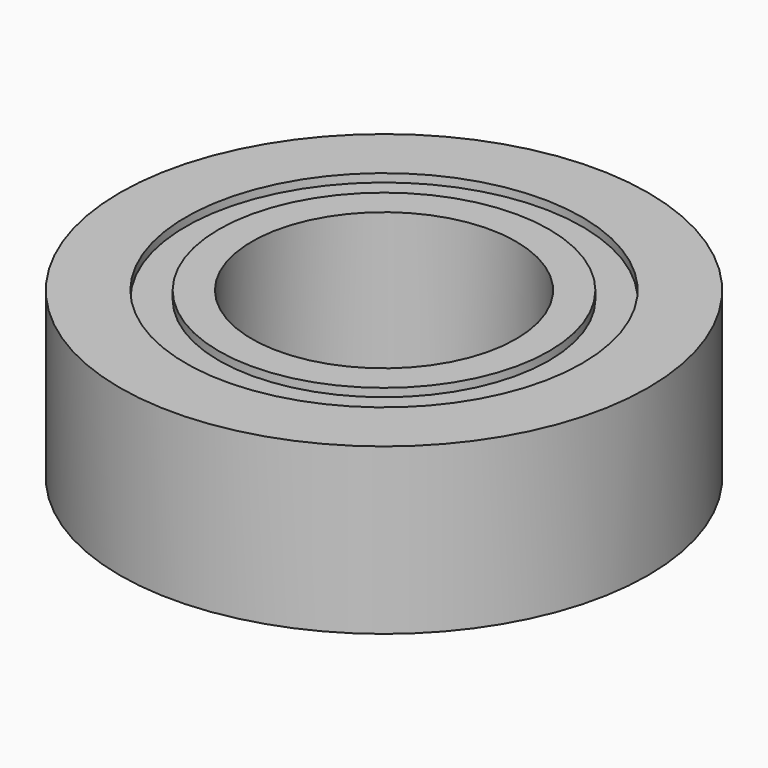
from build123d import *

# Parameters (mm, degrees)
SKETCH_R        = 8
SKETCH_R_2      = 4
PAD_DEPTH       = 5
SKETCH001_R     = 6
SKETCH001_R_2   = 5
POCKET_DEPTH    = 0.25
SKETCH002_R     = 6
SKETCH002_R_2   = 5
POCKET001_DEPTH = 0.25


with BuildPart() as part:
    # Sketch → Pad (new body)
    with BuildSketch(Plane.XY):
        Circle(SKETCH_R)
        Circle(SKETCH_R_2, mode=Mode.SUBTRACT)
    extrude(amount=PAD_DEPTH)

    # Sketch001 → Pocket (cut)
    with BuildSketch(Plane.XY.offset(5)):
        Circle(SKETCH001_R)
        Circle(SKETCH001_R_2, mode=Mode.SUBTRACT)
    extrude(amount=-POCKET_DEPTH, mode=Mode.SUBTRACT)

    # Sketch002 → Pocket001 (cut)
    with BuildSketch(Plane(origin=(0, 0, 0), x_dir=(1, 0, 0), z_dir=(0, 0, -1))):
        Circle(SKETCH002_R)
        Circle(SKETCH002_R_2, mode=Mode.SUBTRACT)
    extrude(amount=-POCKET001_DEPTH, mode=Mode.SUBTRACT)


solid = part.part
